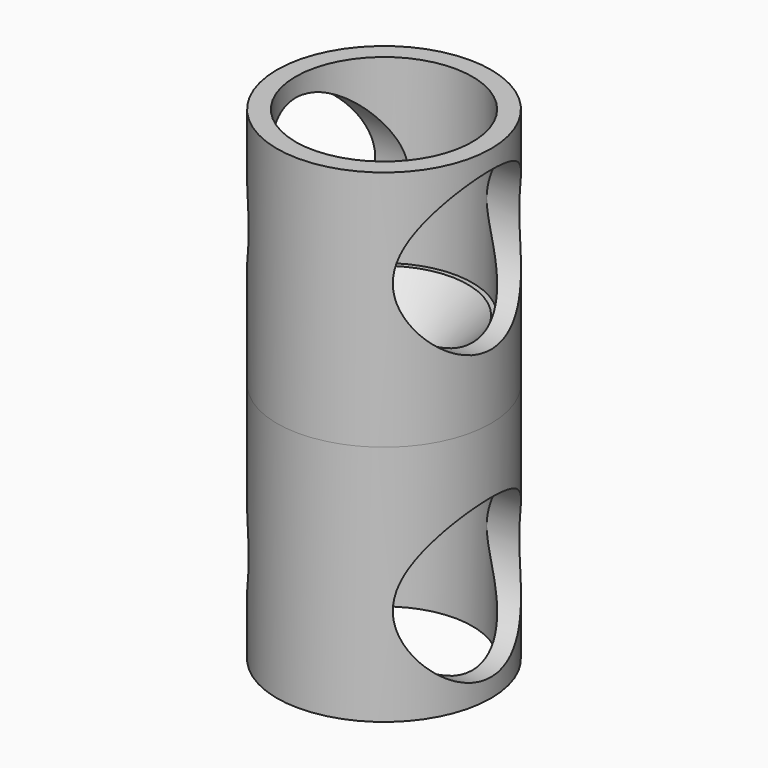
from build123d import *

# Parameters (mm, degrees)
F3_R     = 8.5
F4_DEPTH = 27.1


with BuildPart() as f1:
    # F0 (on Front) → F1 (revolve)
    with BuildSketch(Plane.XZ):
        Polygon((-11.5, 52), (-11.5, 26), (-8.5484226346, 26), (-8.5484226346, 27.5), (-4, 27.5), (-9, 32.5), (-9.5, 32.5), (-9.5, 52), align=None)
    revolve(axis=Axis((0, 0, 16.25), (0, 0, -1)))


with BuildPart() as f2:
    # F0 (on Front) → F2 (revolve)
    with BuildSketch(Plane.XZ):
        Polygon((-11.5, 0), (-9.5, 0), (-9.5, 19.5), (-4, 19.5), (-4, 27.5), (-8.5484226346, 27.5), (-8.5484226346, 26), (-11.5, 26), align=None)
    revolve(axis=Axis((0, 0, 16.25), (0, 0, -1)))


with BuildPart() as f4_tool:
    # F3 (on Right) → F4 (new body, symmetric)
    with BuildSketch(Plane.YZ):
        with Locations((0, 41.5)):
            Circle(F3_R)
        with Locations((0, 10.5)):
            Circle(F3_R)
    extrude(amount=F4_DEPTH, both=True)


with BuildPart() as f1_1:
    add(f1.part)

    # F4: cut by f4_tool
    add(f4_tool.part, mode=Mode.SUBTRACT)


with BuildPart() as f2_1:
    add(f2.part)

    # F4: cut by f4_tool
    add(f4_tool.part, mode=Mode.SUBTRACT)


solid = Compound([f1_1.part, f2_1.part])
